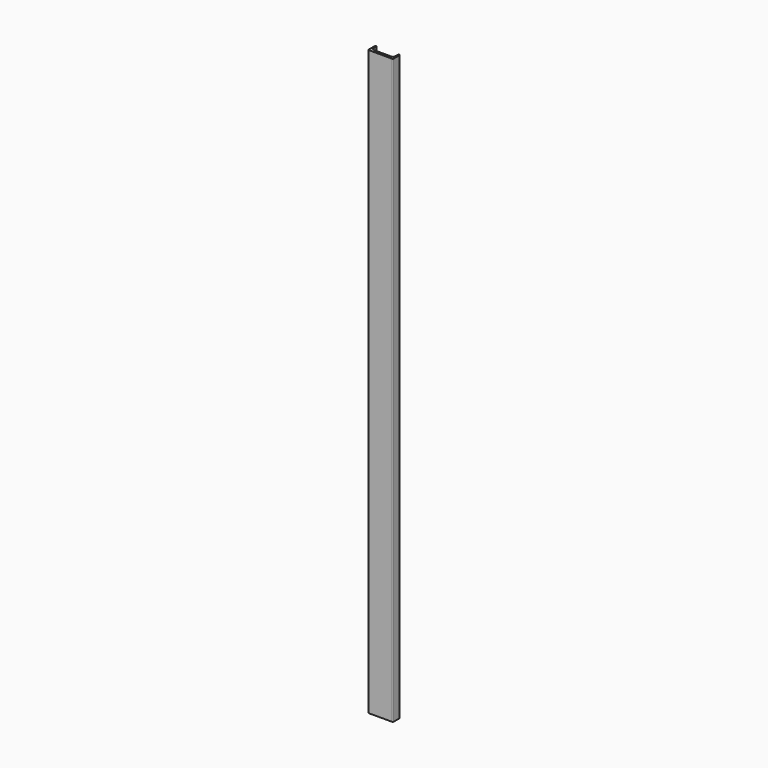
from build123d import *

# Parameters (mm, degrees)
F1_DEPTH = 2657


with BuildPart() as f1:
    # F0 (on Top) → F1 (new body)
    with BuildSketch(Plane.XY):
        with BuildLine():
            Line((3, 40), (0, 37))
            Line((0, 37), (0, 4))
            ThreePointArc((0, 4), (1.171573, 1.171573), (4, 0))
            Line((4, 0), (109, 0))
            ThreePointArc((109, 0), (111.828427, 1.171573), (113, 4))
            Line((113, 4), (113, 37))
            Line((113, 37), (110, 40))
            Line((110, 40), (107, 40))
            Line((107, 40), (105.189226, 19.302754))
            ThreePointArc((105.189226, 19.302754), (102.62439, 14.101781), (97.219668, 12))
            Line((97.219668, 12), (56.5, 12))
            Line((56.5, 12), (15.780332, 12))
            ThreePointArc((15.780332, 12), (10.37561, 14.101781), (7.810774, 19.302754))
            Line((7.810774, 19.302754), (6, 40))
            Line((6, 40), (3, 40))
        make_face()
    extrude(amount=F1_DEPTH)


solid = f1.part
